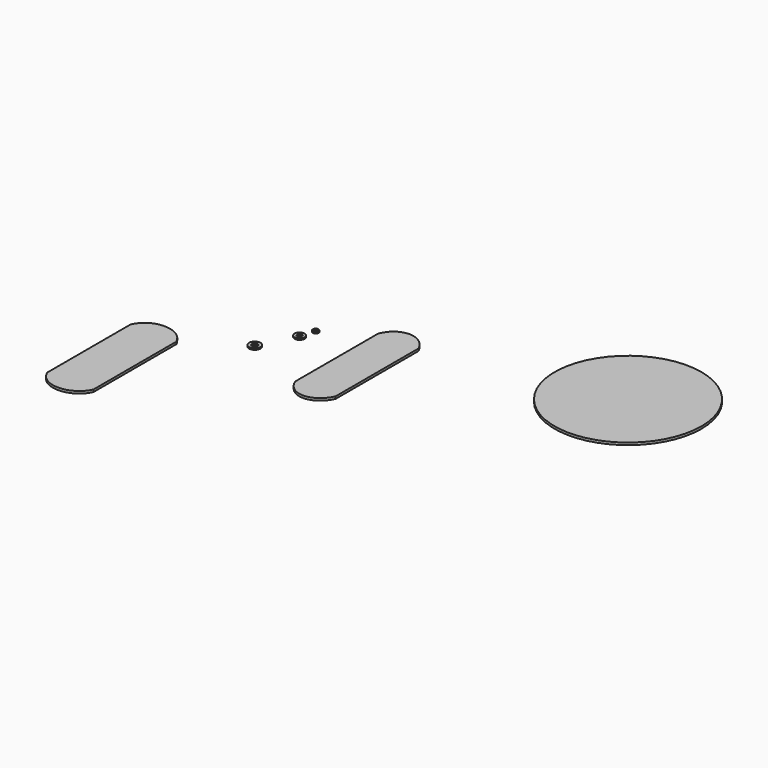
from build123d import *

# Parameters (mm, degrees)
F0_R     = 25.5
F1_DEPTH = 0.8
F0_R_2   = 1
F0_R_3   = 0.5
F0_R_4   = 1.75
F0_R_5   = 0.85
F0_R_6   = 2
F2_DEPTH = 0.5


with BuildPart() as f1:
    # F0 (on Top) → F1 (new body)
    with BuildSketch(Plane.XY):
        with BuildLine():
            add(Edge.make_bspline(
                [(-7, 18), (-4.364693, 24.670193), (3.766434, 24.850884), (7, 18)],
                knots=[0, 0, 0, 0, 14, 14, 14, 14], degree=3))
            Line((-7, 18), (-7, 0))
            Line((-7, 0), (-7, -18))
            add(Edge.make_bspline(
                [(-7, -18), (-4.364693, -24.670193), (3.766434, -24.850884), (7, -18)],
                knots=[0, 0, 0, 0, 14, 14, 14, 14], degree=3))
            Line((7, -18), (7, 0))
            Line((7, 0), (7, 18))
        make_face()
        with BuildLine():
            add(Edge.make_bspline(
                [(-62.771242, -19.847358), (-60.135935, -13.177165), (-50.004808, -12.996474), (-46.771242, -19.847358)],
                knots=[0, 0, 0, 0, 16, 16, 16, 16], degree=3))
            Line((-62.771242, -19.847358), (-62.771242, -37.847358))
            Line((-62.771242, -37.847358), (-62.771242, -55.847358))
            add(Edge.make_bspline(
                [(-62.771242, -55.847358), (-60.135935, -62.517551), (-50.004808, -62.698243), (-46.771242, -55.847358)],
                knots=[0, 0, 0, 0, 16, 16, 16, 16], degree=3))
            Line((-46.771242, -55.847358), (-46.771242, -37.847358))
            Line((-46.771242, -37.847358), (-46.771242, -19.847358))
        make_face()
        with Locations((69.946401, 30.269908)):
            Circle(F0_R)
    extrude(amount=F1_DEPTH)


with BuildPart() as f2:
    # F0 (on Top) → F2 (new body)
    with BuildSketch(Plane.XY):
        with Locations((-21.789052, 9.401743)):
            Circle(F0_R_2)
        with Locations((-21.789052, 9.401743)):
            Circle(F0_R_3, mode=Mode.SUBTRACT)
        with Locations((-23.324933, 4.342376)):
            Circle(F0_R_4)
        with Locations((-23.324933, 4.342376)):
            Circle(F0_R_5, mode=Mode.SUBTRACT)
        with Locations((-29.33304, -7.612726)):
            Circle(F0_R_6)
        with Locations((-29.33304, -7.612726)):
            Circle(F0_R_2, mode=Mode.SUBTRACT)
    extrude(amount=F2_DEPTH)


solid = Compound([f1.part, f2.part])
